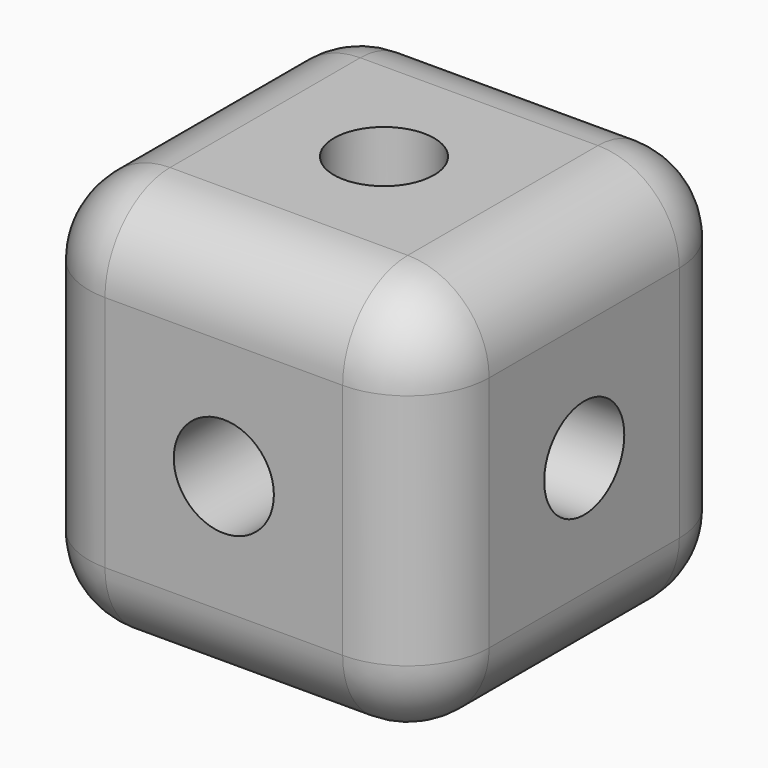
from build123d import *

# Parameters (mm, degrees)
F0_W     = 25
F0_H     = 25
F1_DEPTH = 25
F2_R     = 3.125
F3_DEPTH = 25.4
F4_R     = 3.125
F5_DEPTH = 25.4
F6_R     = 3.125
F7_DEPTH = 25.4
F8_R     = 5.08
F9_R     = 5.08
F10_R    = 5.08
F11_R    = 5.08
F12_R    = 5.08
F13_R    = 5.08


with BuildPart() as f1:
    # F0 (on Top) → F1 (new body)
    with BuildSketch(Plane.XY):
        with Locations((12.5, -12.5)):
            Rectangle(F0_W, F0_H)
    extrude(amount=F1_DEPTH)

    # F2 (on face) → F3 (cut)
    with BuildSketch(Plane.XZ.offset(25)):
        with Locations((12.5, 12.5)):
            Circle(F2_R)
    extrude(amount=-F3_DEPTH, mode=Mode.SUBTRACT)

    # F4 (on face) → F5 (cut)
    with BuildSketch(Plane.YZ.offset(25)):
        with Locations((-12.5, 12.5)):
            Circle(F4_R)
    extrude(amount=-F5_DEPTH, mode=Mode.SUBTRACT)

    # F6 (on face) → F7 (cut)
    with BuildSketch(Plane.XY.offset(25)):
        with Locations((12.5, -12.5)):
            Circle(F6_R)
    extrude(amount=-F7_DEPTH, mode=Mode.SUBTRACT)

    # F8
    f8_edges = [f1.edges().sort_by_distance(p)[0] for p in [
        (12.5, -25, 0),
    ]]
    fillet(f8_edges, radius=F8_R)

    # F9
    f9_edges = [f1.edges().sort_by_distance(p)[0] for p in [
        (12.5, 0, 0),
    ]]
    fillet(f9_edges, radius=F9_R)

    # F10
    f10_edges = [f1.edges().sort_by_distance(p)[0] for p in [
        (12.5, 0, 25),
    ]]
    fillet(f10_edges, radius=F10_R)

    # F11
    f11_edges = [f1.edges().sort_by_distance(p)[0] for p in [
        (12.5, -25, 25),
    ]]
    fillet(f11_edges, radius=F11_R)

    # F12
    f12_edges = [f1.edges().sort_by_distance(p)[0] for p in [
        (25, 0, 12.5),
    ]]
    fillet(f12_edges, radius=F12_R)

    # F13
    f13_edges = [f1.edges().sort_by_distance(p)[0] for p in [
        (0, -12.5, 25),
    ]]
    fillet(f13_edges, radius=F13_R)


solid = f1.part
